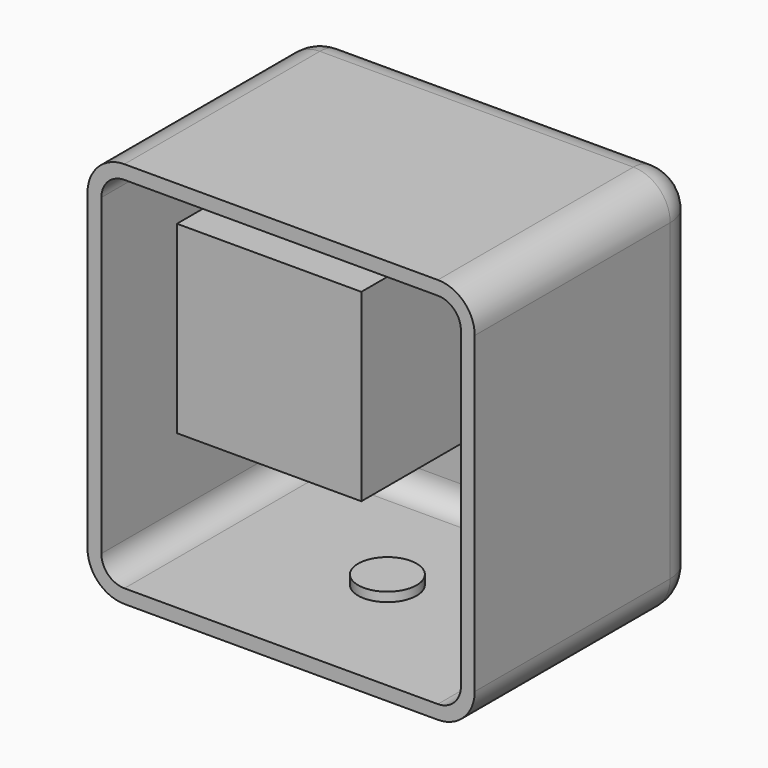
from build123d import *

# Parameters (mm, degrees)
F0_W     = 84
F0_H     = 61
F1_DEPTH = 84
F2_R     = 8
F3_T     = -3
F4_R     = 6.35
F5_DEPTH = 2
F6_R     = 6.35
F7_DEPTH = 2
F8_W     = 40
F8_H     = 40
F9_DEPTH = 50


with BuildPart() as f1:
    # F0 (on Top) → F1 (new body)
    with BuildSketch(Plane.XY):
        Rectangle(F0_W, F0_H)
    extrude(amount=F1_DEPTH)

    # F2
    f2_edges = [f1.edges().sort_by_distance(p)[0] for p in [
        (-42, 0, 84),
        (-42, 30.5, 42),
        (0, 30.5, 84),
        (0, 30.5, 0),
        (-42, 0, 0),
        (42, 0, 84),
        (42, 30.5, 42),
        (42, 0, 0),
    ]]
    fillet(f2_edges, radius=F2_R)

    # F3
    f3_openings = [f1.faces().sort_by_distance(p)[0] for p in [
        (0, -30.5, 42),
    ]]
    offset(amount=F3_T, openings=f3_openings)

    # F4 (on face) → F5 (join)
    with BuildSketch(Plane.XY.offset(3)):
        with Locations((0, -1.681145)):
            Circle(F4_R)
    extrude(amount=F5_DEPTH)

    # F6 (on face) → F7 (join)
    with BuildSketch(Plane(origin=(39, 0, 0), x_dir=(0, -1, 0), z_dir=(-1, 0, 0))):
        with Locations((0, 42)):
            Circle(F6_R)
    extrude(amount=F7_DEPTH)

    # F8 (on face) → F9 (join)
    with BuildSketch(Plane.XZ.offset(-27.5)):
        with Locations((-9, 51)):
            Rectangle(F8_W, F8_H)
    extrude(amount=F9_DEPTH)


solid = f1.part
